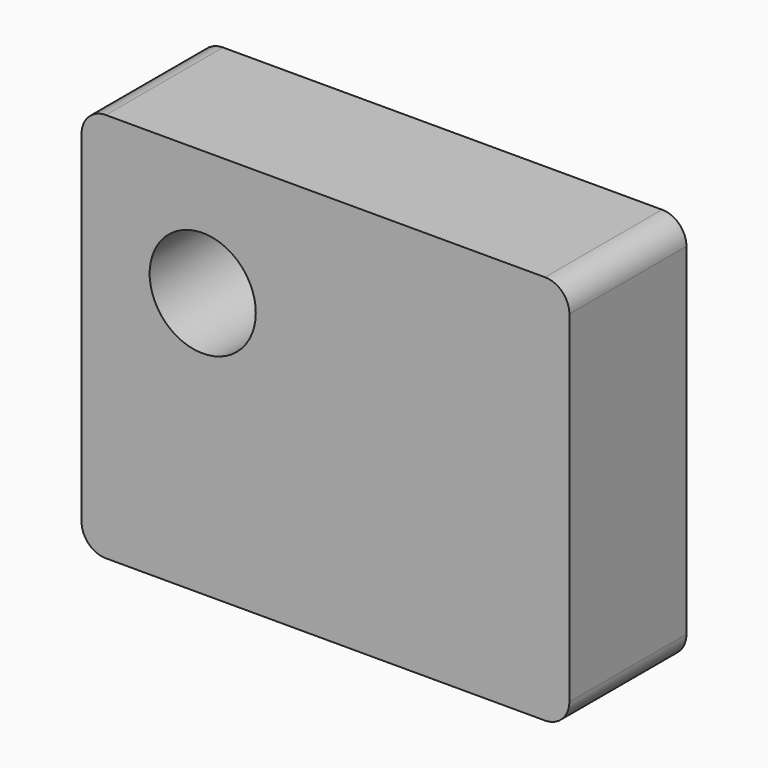
from build123d import *

# Parameters (mm, degrees)
F0_W     = 100
F0_H     = 80
F1_DEPTH = 30
F2_R     = 10.879287
F3_DEPTH = 25
F4_R     = 5


with BuildPart() as f1:
    # F0 (on Front) → F1 (new body)
    with BuildSketch(Plane.XZ):
        with Locations((50, 40)):
            Rectangle(F0_W, F0_H)
    extrude(amount=F1_DEPTH)

    # F2 (on face) → F3 (cut)
    with BuildSketch(Plane.XZ.offset(30)):
        with Locations((24.835449, 54.302912)):
            Circle(F2_R)
    extrude(amount=-F3_DEPTH, mode=Mode.SUBTRACT)

    # F4
    f4_edges = [f1.edges().sort_by_distance(p)[0] for p in [
        (0, -15, 80),
        (100, -15, 80),
        (100, -15, 0),
        (0, -15, 0),
    ]]
    fillet(f4_edges, radius=F4_R)


solid = f1.part
